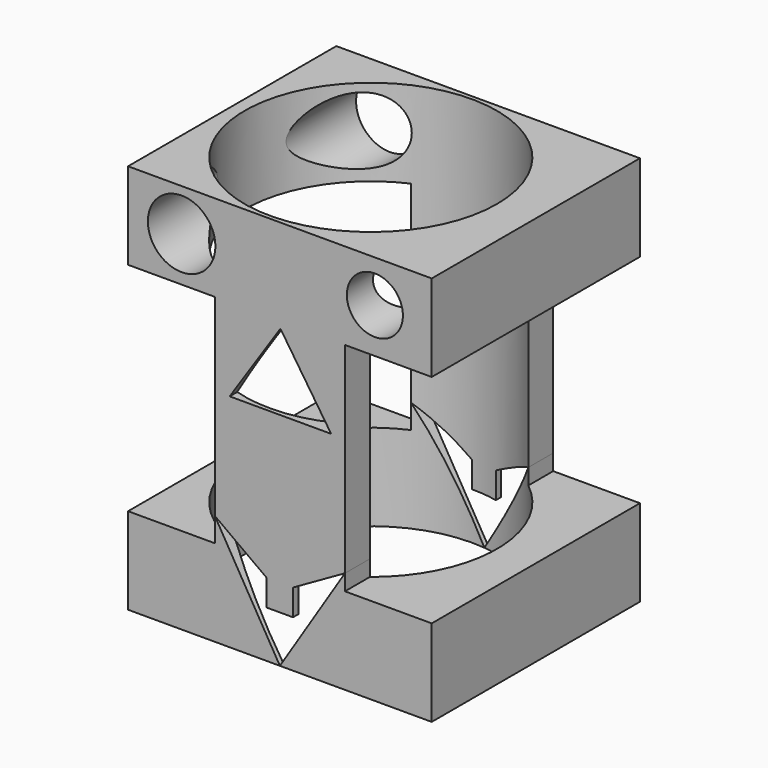
from build123d import *

# Parameters (mm, degrees)
F1_DEPTH  = 76.2
F2_R      = 23.902381
F3_DEPTH  = 63.501
F5_DEPTH  = 76.201
F6_R      = 36.953627
F7_DEPTH  = 114.301
F8_R      = 9.884174
F8_R_2    = 8.206909
F9_DEPTH  = 76.201
F11_DEPTH = 76.201


with BuildPart() as f1:
    # F0 (on Front) → F1 (new body)
    with BuildSketch(Plane.XZ):
        Polygon((-40.581046, -29.830852), (-40.581046, -55.230852), (48.318954, -55.230852), (48.318954, -29.830852), (22.918954, -29.830852), (22.918954, 33.669148), (48.318954, 33.669148), (48.318954, 59.069148), (-40.581046, 59.069148), (-40.581046, 33.669148), (-15.181046, 33.669148), (-15.181046, -29.830852), align=None)
    extrude(amount=F1_DEPTH)

    # F2 (on face) → F3 (cut, through all)
    with BuildSketch(Plane.YZ.offset(22.918954)):
        with Locations((-38.1, 0)):
            Circle(F2_R)
    extrude(amount=-F3_DEPTH, mode=Mode.SUBTRACT)

    # F4 (on face) → F5 (cut, through all)
    with BuildSketch(Plane.XZ.offset(76.2)):
        Polygon((4.023716, 31.725436), (-10.833076, 9.440252), (18.880501, 9.440252), align=None)
    extrude(amount=-F5_DEPTH, mode=Mode.SUBTRACT)

    # F6 (on face) → F7 (cut, through all)
    with BuildSketch(Plane.XY.offset(59.069148)):
        with Locations((0, -38.1)):
            Circle(F6_R)
    extrude(amount=-F7_DEPTH, mode=Mode.SUBTRACT)

    # F8 (on face) → F9 (cut, through all)
    with BuildSketch(Plane.XZ.offset(76.2)):
        with Locations((-24.898209, 46.747979)):
            Circle(F8_R)
        with Locations((31.677213, 46.747979)):
            Circle(F8_R_2)
    extrude(amount=-F9_DEPTH, mode=Mode.SUBTRACT)

    # F10 (on face) → F11 (cut, through all)
    with BuildSketch(Plane.XZ.offset(76.2)):
        Polygon((0, -33.80008), (-15.181046, -22.77267), (3.868954, -55.230852), (22.918954, -25.169933), (7.704584, -33.80008), (7.704584, -41.471325), (0, -41.471325), align=None)
    extrude(amount=-F11_DEPTH, mode=Mode.SUBTRACT)


solid = f1.part
